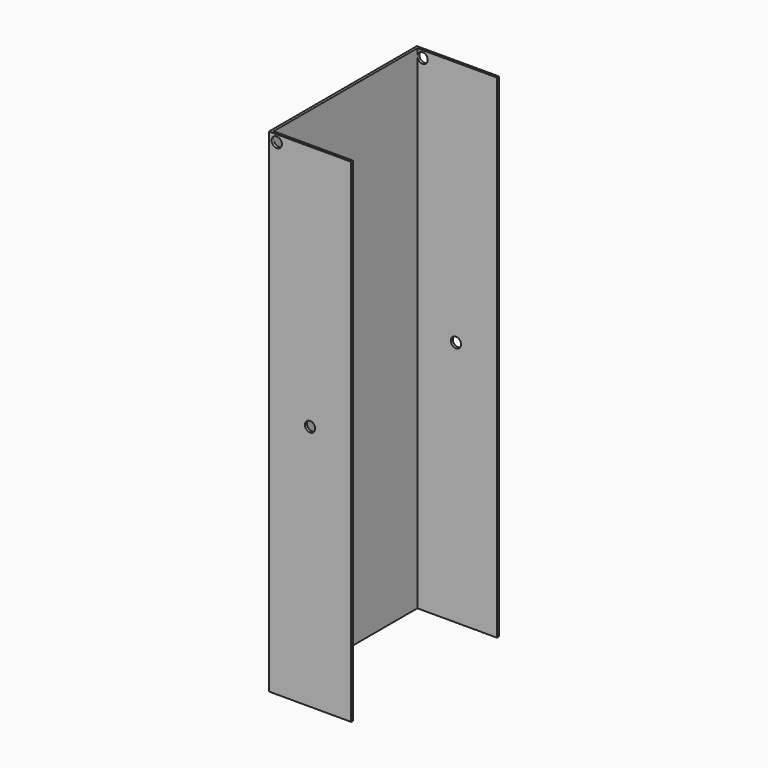
from build123d import *

# Parameters (mm, degrees)
F0_W     = 50.8
F0_H     = 304.8
F1_DEPTH = 1.5875
F2_W     = 114.3
F2_H     = 304.8
F3_DEPTH = 1.5875
F4_W     = 50.8
F4_H     = 304.8
F5_DEPTH = 1.5875
F6_R     = 3.175
F7_DEPTH = 136.906
F8_R     = 3.175
F9_DEPTH = 146.304


with BuildPart() as f1:
    # F0 (on Front) → F1 (new body)
    with BuildSketch(Plane.XZ):
        Rectangle(F0_W, F0_H)
    extrude(amount=-F1_DEPTH)

    # F2 (on face) → F3 (join)
    with BuildSketch(Plane(origin=(-25.4, 0, 0), x_dir=(0, -1, 0), z_dir=(-1, 0, 0))):
        with Locations((-57.15, 0)):
            Rectangle(F2_W, F2_H)
    extrude(amount=-F3_DEPTH)

    # F4 (on face) → F5 (join)
    with BuildSketch(Plane(origin=(0, 114.3, 0), x_dir=(-1, 0, 0), z_dir=(0, 1, 0))):
        Rectangle(F4_W, F4_H)
    extrude(amount=-F5_DEPTH)

    # F6 (on face) → F7 (cut)
    with BuildSketch(Plane(origin=(0, 114.3, 0), x_dir=(-1, 0, 0), z_dir=(0, 1, 0))):
        with Locations((20.58794, 148.060083)):
            Circle(F6_R)
    extrude(amount=-F7_DEPTH, mode=Mode.SUBTRACT)

    # F8 (on face) → F9 (cut)
    with BuildSketch(Plane.XZ):
        Circle(F8_R)
    extrude(amount=-F9_DEPTH, mode=Mode.SUBTRACT)


solid = f1.part
